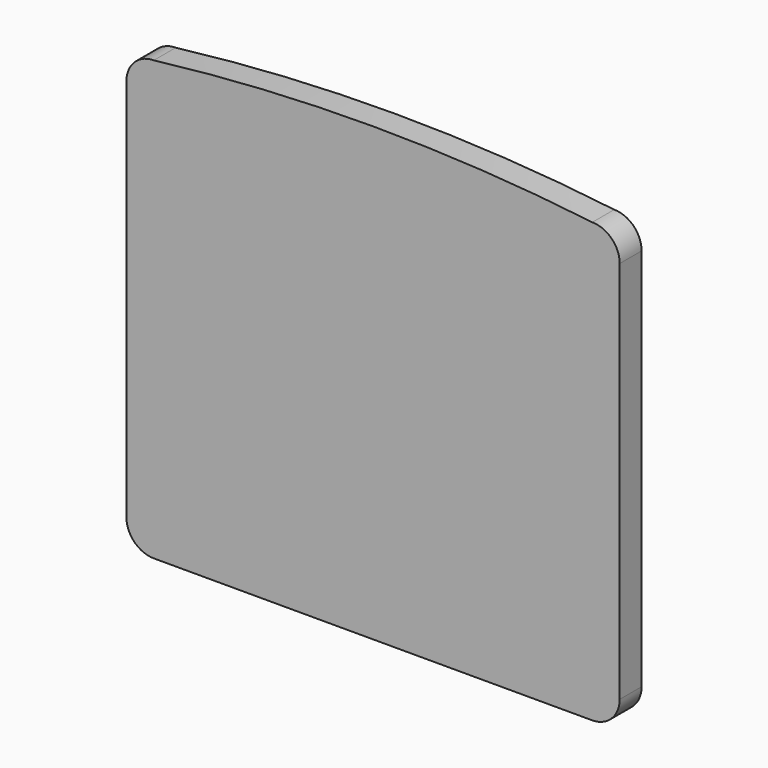
from build123d import *

# Parameters (mm, degrees)
F1_DEPTH = 25.4


with BuildPart() as f1:
    # F0 (on Front) → F1 (new body)
    with BuildSketch(Plane.XZ):
        with BuildLine():
            ThreePointArc((242.623108, 186.345377), (39.423108, 198.567937), (-163.776892, 186.345377))
            Line((-163.776892, 186.345377), (242.623108, 186.345377))
        make_face()
        with BuildLine():
            Line((242.623108, 186.345377), (-163.776892, 186.345377))
            ThreePointArc((-163.776892, 186.345377), (-181.737404, 178.905889), (-189.176892, 160.945377))
            Line((-189.176892, 160.945377), (-189.176892, -194.654623))
            ThreePointArc((-189.176892, -194.654623), (-181.737404, -212.615136), (-163.776892, -220.054623))
            Line((-163.776892, -220.054623), (242.623108, -220.054623))
            ThreePointArc((242.623108, -220.054623), (260.58362, -212.615136), (268.023108, -194.654623))
            Line((268.023108, -194.654623), (268.023108, 160.945377))
            ThreePointArc((268.023108, 160.945377), (260.58362, 178.905889), (242.623108, 186.345377))
        make_face()
    extrude(amount=F1_DEPTH)


solid = f1.part
